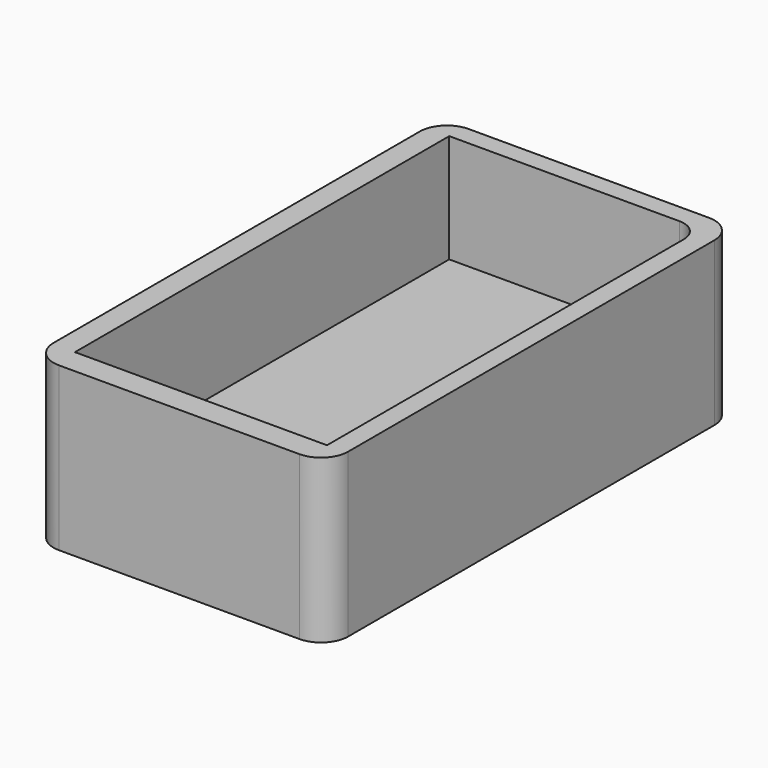
from build123d import *

# Parameters (mm, degrees)
F0_W     = 58.993546
F0_H     = 109.506775
F1_DEPTH = 38.1
F2_DEPTH = 12.7
F3_R     = 5.08


with BuildPart() as f1:
    # F0 (on Top) → F1 (new body)
    with BuildSketch(Plane.XY):
        with BuildLine():
            Line((-62.598708, -64.339839), (-6.35, -64.339839))
            ThreePointArc((-6.35, -64.339839), (-1.859872, -62.479967), (0, -57.989839))
            Line((0, -57.989839), (0, 49.140807))
            ThreePointArc((0, 49.140807), (-1.859872, 53.630935), (-6.35, 55.490807))
            Line((-6.35, 55.490807), (-62.598708, 55.490807))
            ThreePointArc((-62.598708, 55.490807), (-67.088837, 53.630935), (-68.948708, 49.140807))
            Line((-68.948708, 49.140807), (-68.948708, -57.989839))
            ThreePointArc((-68.948708, -57.989839), (-67.088837, -62.479967), (-62.598708, -64.339839))
        make_face()
        with Locations((-34.105645, -3.687096)):
            Rectangle(F0_W, F0_H, mode=Mode.SUBTRACT)
    extrude(amount=F1_DEPTH)

    # F0 (on Top) → F2 (join)
    with BuildSketch(Plane.XY):
        with Locations((-34.105645, -3.687096)):
            Rectangle(F0_W, F0_H)
    extrude(amount=F2_DEPTH)

    # F3
    f3_edges = [f1.edges().sort_by_distance(p)[0] for p in [
        (-4.608872, 51.066291, 25.4),
    ]]
    fillet(f3_edges, radius=F3_R)


solid = f1.part
